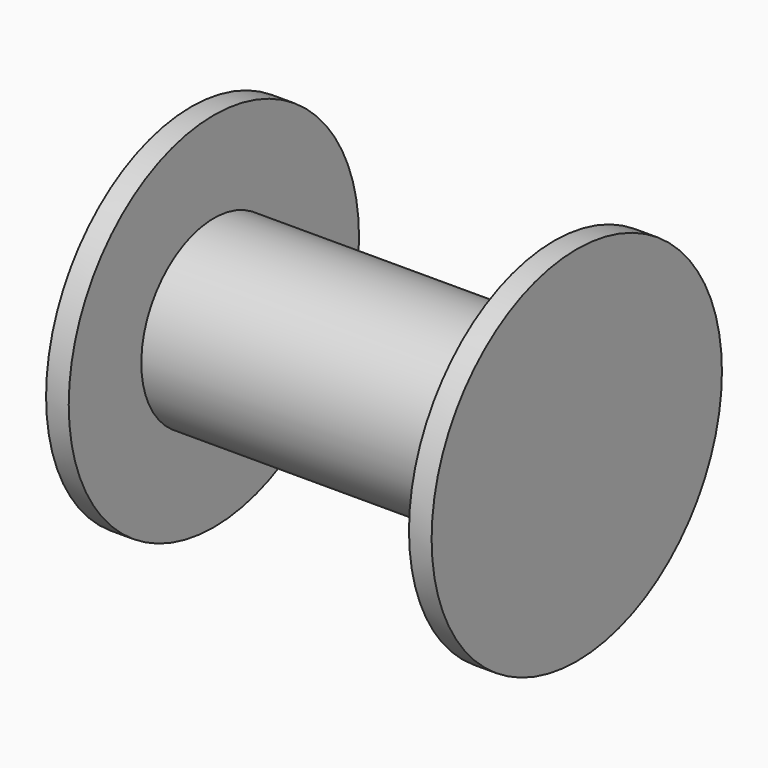
from build123d import *

# Parameters (mm, degrees)
CYLINDER003_R      = 25.4
CYLINDER003_DEPTH  = 3.17
CYLINDER001_R      = 12.7
CYLINDER001_DEPTH  = 50.8
CYLINDER004_R      = 25.4
CYLINDER004_DEPTH  = 3.17
FUSION_PITCH_ANGLE = 90


with BuildPart() as cylinder003:
    # Cylinder003 → Cylinder003 (new body)
    with BuildSketch(Plane.XY):
        Circle(CYLINDER003_R)
    extrude(amount=CYLINDER003_DEPTH)


with BuildPart() as cylinder001:
    # Cylinder001 → Cylinder001 (new body)
    with BuildSketch(Plane.XY):
        Circle(CYLINDER001_R)
    extrude(amount=CYLINDER001_DEPTH)


with BuildPart() as fusion:
    # Cylinder004 → Cylinder004 (new body)
    with BuildSketch(Plane.XY.offset(50.8)):
        Circle(CYLINDER004_R)
    extrude(amount=CYLINDER004_DEPTH)

    # Fusion: union Cylinder003, Cylinder001
    add(cylinder003.part)
    add(cylinder001.part)


with BuildPart() as fusion_1:
    # Fusion pitch: moved
    add(fusion.part.rotate(Axis((0, 0, 0), (0, 1, 0)), FUSION_PITCH_ANGLE))


with BuildPart() as fusion_2:
    # Fusion placement: moved
    add(fusion_1.part.moved(Location((-22.347, 11.43, 50.8))))


solid = fusion_2.part
